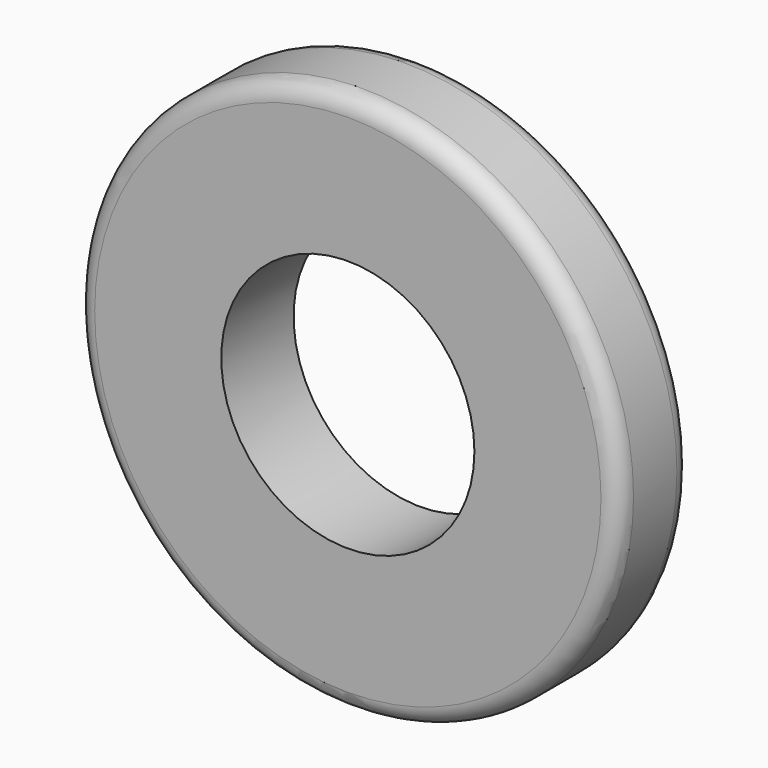
from build123d import *

# Parameters (mm, degrees)
CYLINDER066_R     = 7
CYLINDER066_DEPTH = 5
CYLINDER067_R     = 15
CYLINDER067_DEPTH = 5
FILLET006_R       = 1
FILLET007_R       = 1


with BuildPart() as cylindre062:
    # Cylinder066 → Cylinder066 (new body)
    with BuildSketch(Plane(origin=(0, -4, -107), x_dir=(1, 0, 0), z_dir=(0, -1, 0))):
        Circle(CYLINDER066_R)
    extrude(amount=CYLINDER066_DEPTH)


with BuildPart() as fillet007:
    # Cylinder067 → Cylinder067 (new body)
    with BuildSketch(Plane(origin=(0, -4, -107), x_dir=(1, 0, 0), z_dir=(0, -1, 0))):
        Circle(CYLINDER067_R)
    extrude(amount=CYLINDER067_DEPTH)

    # Cut040: cut Cylindre062
    add(cylindre062.part, mode=Mode.SUBTRACT)

    # Fillet006
    fillet006_edges = [fillet007.edges().sort_by_distance(p)[0] for p in [
        (-15, -4, -107),
    ]]
    fillet(fillet006_edges, radius=FILLET006_R)

    # Fillet007
    fillet007_edges = [fillet007.edges().sort_by_distance(p)[0] for p in [
        (-15, -9, -107),
    ]]
    fillet(fillet007_edges, radius=FILLET007_R)


solid = fillet007.part
